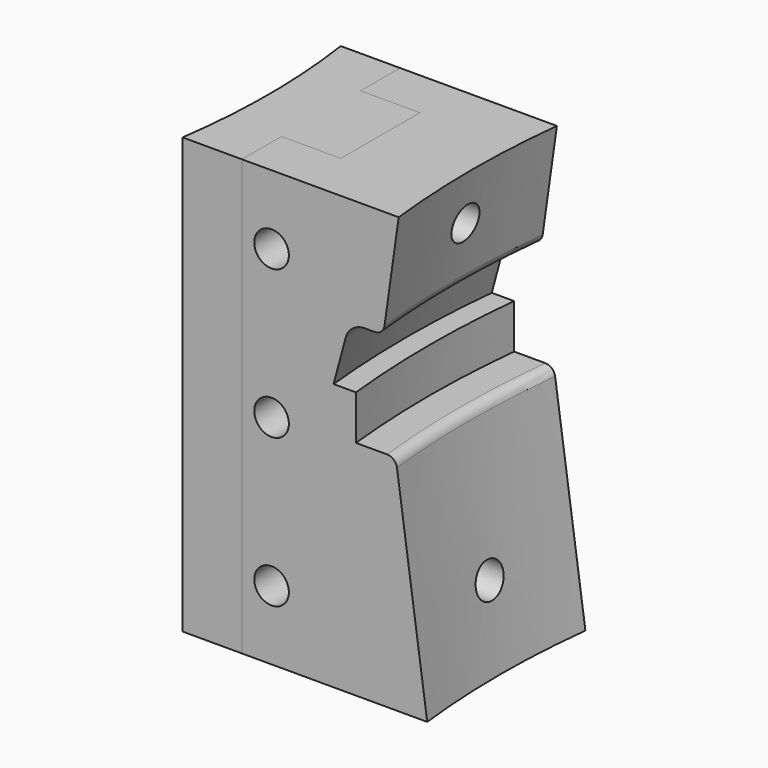
from build123d import *

# Parameters (mm, degrees)
F1_ANGLE_BACK = 15
F1_ANGLE      = 30
F3_DEPTH      = 88.001
F4_R          = 4
F5_R          = 2
F6_R          = 3.5
F7_DEPTH      = 7
F8_DEPTH      = 25.4835061419
F9_W          = 12
F9_H          = 88
F9_R          = 3.5
F10_DEPTH     = 10
F14_DEPTH     = 88
F15_DEPTH     = 40.0010001
F16_DEPTH     = 24.001
F17_DEPTH     = 10


with BuildPart() as f1:
    # F0 (on Front) → F1 (revolve)
    with BuildSketch(Plane.XZ, mode=Mode.PRIVATE) as f1_sk:
        Polygon((5.5, 12), (8.5918983635, 34), (-15, 34), (-15, -54), (14.3243375616, -54), (8, -9), (0, -9), (0, 0), (-4.5, 0), (-1.2846096908, 12), align=None)
    revolve(f1_sk.sketch.rotate(Axis((187.5898689032, 0, -10), (0, 0, -1)), -F1_ANGLE_BACK), axis=Axis((187.5898689032, 0, -10), (0, 0, -1)), revolution_arc=F1_ANGLE)

    # F2 (on face) → F3 (cut, through all)
    with BuildSketch(Plane.XY.offset(34)):
        Polygon((-30, -20), (-30, -120), (30, -120), (30, -20), (-10, -20), (-10, 20), (30, 20), (30, 120), (-30, 120), (-30, 20), align=None)
    extrude(amount=-F3_DEPTH, mode=Mode.SUBTRACT)

    # F4
    f4_edges = [f1.edges().sort_by_distance(p)[0] for p in [
        (-1.28461, 0, 12),
    ]]
    fillet(f4_edges, radius=F4_R)

    # F5
    f5_edges = [f1.edges().sort_by_distance(p)[0] for p in [
        (5.5, 0, 12),
        (8, 0, -9),
    ]]
    fillet(f5_edges, radius=F5_R)

    # F6 (on face) → F7 (cut)
    with BuildSketch(Plane(origin=(-10, 0, 0), x_dir=(0, -1, 0), z_dir=(-1, 0, 0))):
        Polygon((5.75, 27.3197640478), (0, 30.6395280957), (-5.75, 27.3197640478), (-5.75, 20.6802359522), (0, 17.3604719043), (5.75, 20.6802359522), align=None)
        with Locations((0, 24)):
            Circle(F6_R, mode=Mode.SUBTRACT)
        Polygon((5.75, -34.6802359522), (0, -31.3604719043), (-5.75, -34.6802359522), (-5.75, -41.3197640478), (0, -44.6395280957), (5.75, -41.3197640478), align=None)
        with Locations((0, -38)):
            Circle(F6_R, mode=Mode.SUBTRACT)
        with Locations((0, 24)):
            Circle(F6_R)
        with Locations((0, -38)):
            Circle(F6_R)
    extrude(amount=-F7_DEPTH, mode=Mode.SUBTRACT)

    # F6 (on face) → F8 (cut, through all)
    with BuildSketch(Plane(origin=(-10, 0, 0), x_dir=(0, -1, 0), z_dir=(-1, 0, 0))):
        with Locations((0, 24)):
            Circle(F6_R)
        with Locations((0, -38)):
            Circle(F6_R)
    extrude(amount=-F8_DEPTH, mode=Mode.SUBTRACT)


with BuildPart() as f10:
    # F9 (on face) → F10 (new body)
    with BuildSketch(Plane.XZ.offset(20)):
        with Locations((-16, -10)):
            Rectangle(F9_W, F9_H)
        with Locations((-16, -40)):
            Circle(F9_R, mode=Mode.SUBTRACT)
        with Locations((-16, -10)):
            Circle(F9_R, mode=Mode.SUBTRACT)
        with Locations((-16, 20)):
            Circle(F9_R, mode=Mode.SUBTRACT)
    extrude(amount=-F10_DEPTH)


with BuildPart() as f11_1:
    # F11: instance of F10
    add(f10.part.mirror(Plane.XZ))


with BuildPart() as f1_1:
    add(f1.part)

    # F12: union F10, F11_1
    add(f10.part)
    add(f11_1.part)


with BuildPart() as f14:
    # F13 (on face) → F14 (new body, through all)
    with BuildSketch(Plane.XY.offset(34)):
        with BuildLine():
            Line((-10, 10), (-22, 10))
            Line((-22, 10), (-22, 20))
            Line((-22, 20), (-34, 20))
            ThreePointArc((-34, 20), (-32.5609489335, 0), (-34, -20))
            Line((-34, -20), (-22, -20))
            Line((-22, -20), (-22, -10))
            Line((-22, -10), (-10, -10))
            Line((-10, -10), (-10, 10))
        make_face()
    extrude(amount=-F14_DEPTH)

    # F9 (on face) → F15 (cut, through all)
    with BuildSketch(Plane.XZ.offset(20)):
        with Locations((-16, 20)):
            Circle(F9_R)
        with Locations((-16, -10)):
            Circle(F9_R)
        with Locations((-16, -40)):
            Circle(F9_R)
    extrude(amount=-F15_DEPTH, mode=Mode.SUBTRACT)

    # F6 (on face) → F16 (cut, through all)
    with BuildSketch(Plane(origin=(-10, 0, 0), x_dir=(0, -1, 0), z_dir=(-1, 0, 0))):
        with Locations((0, -38)):
            Circle(F6_R)
        with Locations((0, 24)):
            Circle(F6_R)
    extrude(amount=F16_DEPTH, mode=Mode.SUBTRACT)

    # F6 (on face) → F17 (cut)
    with BuildSketch(Plane(origin=(-10, 0, 0), x_dir=(0, -1, 0), z_dir=(-1, 0, 0))):
        Polygon((5.75, -34.6802359522), (0, -31.3604719043), (-5.75, -34.6802359522), (-5.75, -41.3197640478), (0, -44.6395280957), (5.75, -41.3197640478), align=None)
        with Locations((0, -38)):
            Circle(F6_R, mode=Mode.SUBTRACT)
        Polygon((5.75, 27.3197640478), (0, 30.6395280957), (-5.75, 27.3197640478), (-5.75, 20.6802359522), (0, 17.3604719043), (5.75, 20.6802359522), align=None)
        with Locations((0, 24)):
            Circle(F6_R, mode=Mode.SUBTRACT)
    extrude(amount=F17_DEPTH, mode=Mode.SUBTRACT)


solid = Compound([f1_1.part, f14.part])
